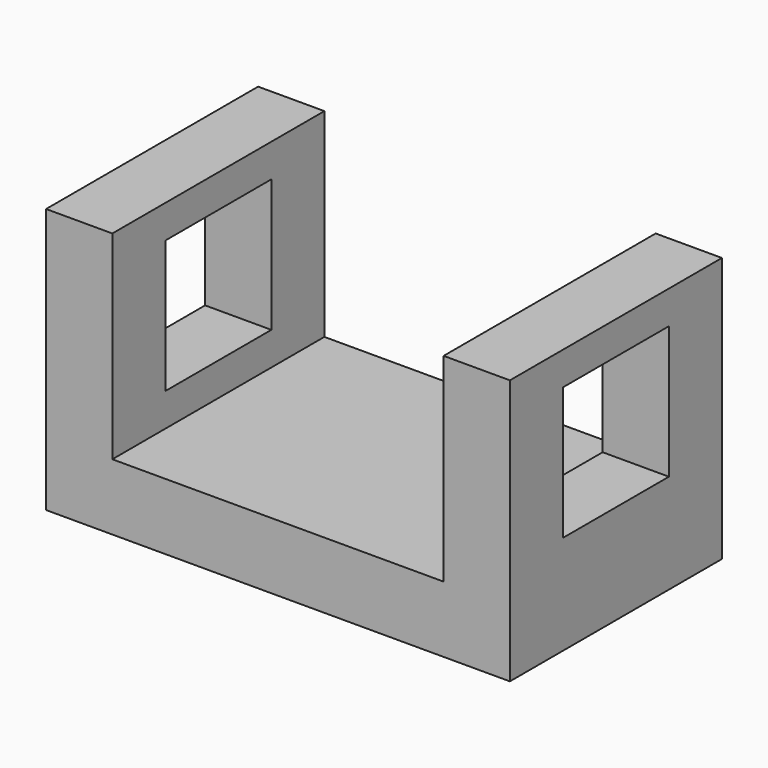
from build123d import *

# Parameters (mm, degrees)
F0_W     = 50.8
F0_H     = 50.8
F0_W_2   = 25.4
F0_H_2   = 25.4
F1_DEPTH = 88.9
F2_W     = 63.5
F2_H     = 38.1
F3_DEPTH = 50.8


with BuildPart() as f1:
    # F0 (on Right) → F1 (new body)
    with BuildSketch(Plane.YZ):
        Rectangle(F0_W, F0_H)
        with Locations((0, 6.35)):
            Rectangle(F0_W_2, F0_H_2, mode=Mode.SUBTRACT)
    extrude(amount=F1_DEPTH)

    # F2 (on face) → F3 (cut)
    with BuildSketch(Plane.XZ.offset(25.4)):
        with Locations((44.45, 6.35)):
            Rectangle(F2_W, F2_H)
    extrude(amount=-F3_DEPTH, mode=Mode.SUBTRACT)


solid = f1.part
